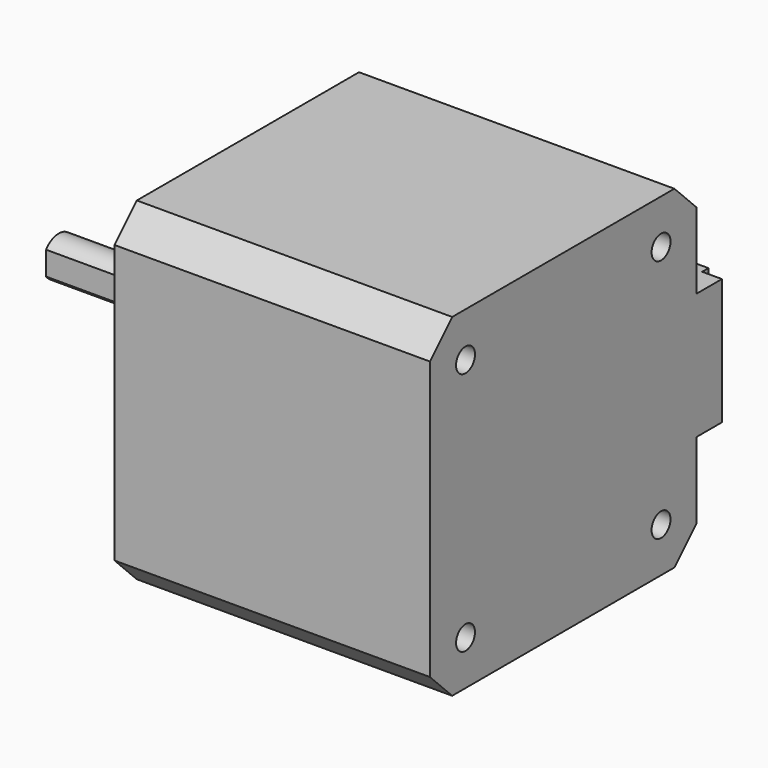
from build123d import *

# Parameters (mm, degrees)
PAD_DEPTH            = 40
SKETCH001_R          = 1.5
HOLE_DEPTH           = 4.5
HOLE_TIPS_R          = 1.5
SKETCH002_R          = 1.5
HOLE001_DEPTH        = 4.5
HOLE001_TIPS_R       = 1.5
SKETCH003_R          = 11
PAD001_DEPTH         = 2
PAD002_DEPTH         = 22
SKETCH005_R          = 2.5
PAD003_DEPTH         = 3
SKETCH006_W          = 16
SKETCH006_H          = 4
PAD004_DEPTH         = 2.5
PAD005_DEPTH         = 5
SKETCH008_W          = 0.5
SKETCH008_H          = 0.5
PAD006_DEPTH         = 4
BODY_PITCH_ANGLE     = 90
BODY_PLACEMENT_ANGLE = -180


with BuildPart() as part:
    # Sketch → Pad (new body)
    with BuildSketch(Plane.XY):
        Polygon((-17.614466, 21.15), (17.614466, 21.15), (21.15, 17.614466), (21.15, -17.614466), (17.614466, -21.15), (-17.614466, -21.15), (-21.15, -17.614466), (-21.15, 17.614466), align=None)
    extrude(amount=PAD_DEPTH)

    # Sketch001 (on Face10 of Pad) → Hole (cut)
    with BuildSketch(Plane.XY.offset(40)):
        with Locations((15.5, 15.5)):
            Circle(SKETCH001_R)
        with Locations((-15.5, 15.5)):
            Circle(SKETCH001_R)
        with Locations((-15.5, -15.5)):
            Circle(SKETCH001_R)
        with Locations((15.5, -15.5)):
            Circle(SKETCH001_R)
    extrude(amount=-HOLE_DEPTH, mode=Mode.SUBTRACT)

    # Hole tips → Hole tip 1 section 0
    with BuildSketch(Plane.XY.offset(35.5), mode=Mode.PRIVATE) as hole_tip_1_s0:
        with Locations((15.5, 15.5)):
            Circle(HOLE_TIPS_R)
    loft([hole_tip_1_s0.sketch, Vertex(15.5, 15.5, 34.598709)], mode=Mode.SUBTRACT)

    # Hole tips → Hole tip 2 section 0
    with BuildSketch(Plane.XY.offset(35.5), mode=Mode.PRIVATE) as hole_tip_2_s0:
        with Locations((-15.5, 15.5)):
            Circle(HOLE_TIPS_R)
    loft([hole_tip_2_s0.sketch, Vertex(-15.5, 15.5, 34.598709)], mode=Mode.SUBTRACT)

    # Hole tips → Hole tip 3 section 0
    with BuildSketch(Plane.XY.offset(35.5), mode=Mode.PRIVATE) as hole_tip_3_s0:
        with Locations((-15.5, -15.5)):
            Circle(HOLE_TIPS_R)
    loft([hole_tip_3_s0.sketch, Vertex(-15.5, -15.5, 34.598709)], mode=Mode.SUBTRACT)

    # Hole tips → Hole tip 4 section 0
    with BuildSketch(Plane.XY.offset(35.5), mode=Mode.PRIVATE) as hole_tip_4_s0:
        with Locations((15.5, -15.5)):
            Circle(HOLE_TIPS_R)
    loft([hole_tip_4_s0.sketch, Vertex(15.5, -15.5, 34.598709)], mode=Mode.SUBTRACT)

    # Sketch002 → Hole001 (cut)
    with BuildSketch(Plane.XY):
        with Locations((-15.5, 15.5)):
            Circle(SKETCH002_R)
        with Locations((-15.5, -15.5)):
            Circle(SKETCH002_R)
        with Locations((15.5, -15.5)):
            Circle(SKETCH002_R)
        with Locations((15.5, 15.5)):
            Circle(SKETCH002_R)
    extrude(amount=HOLE001_DEPTH, mode=Mode.SUBTRACT)

    # Hole001 tips → Hole001 tip 1 section 0
    with BuildSketch(Plane.XY.offset(4.5), mode=Mode.PRIVATE) as hole001_tip_1_s0:
        with Locations((-15.5, 15.5)):
            Circle(HOLE001_TIPS_R)
    loft([hole001_tip_1_s0.sketch, Vertex(-15.5, 15.5, 5.401291)], mode=Mode.SUBTRACT)

    # Hole001 tips → Hole001 tip 2 section 0
    with BuildSketch(Plane.XY.offset(4.5), mode=Mode.PRIVATE) as hole001_tip_2_s0:
        with Locations((-15.5, -15.5)):
            Circle(HOLE001_TIPS_R)
    loft([hole001_tip_2_s0.sketch, Vertex(-15.5, -15.5, 5.401291)], mode=Mode.SUBTRACT)

    # Hole001 tips → Hole001 tip 3 section 0
    with BuildSketch(Plane.XY.offset(4.5), mode=Mode.PRIVATE) as hole001_tip_3_s0:
        with Locations((15.5, -15.5)):
            Circle(HOLE001_TIPS_R)
    loft([hole001_tip_3_s0.sketch, Vertex(15.5, -15.5, 5.401291)], mode=Mode.SUBTRACT)

    # Hole001 tips → Hole001 tip 4 section 0
    with BuildSketch(Plane.XY.offset(4.5), mode=Mode.PRIVATE) as hole001_tip_4_s0:
        with Locations((15.5, 15.5)):
            Circle(HOLE001_TIPS_R)
    loft([hole001_tip_4_s0.sketch, Vertex(15.5, 15.5, 5.401291)], mode=Mode.SUBTRACT)

    # Sketch003 (on Face5 of Hole001) → Pad001 (join)
    with BuildSketch(Plane.XY.offset(40)):
        Circle(SKETCH003_R)
    extrude(amount=PAD001_DEPTH)

    # Sketch004 (on Face27 of Pad001) → Pad002 (join)
    with BuildSketch(Plane.XY.offset(42)):
        with BuildLine():
            ThreePointArc((-1.5, 2), (0, -2.5), (1.5, 2))
            Line((-1.5, 2), (1.5, 2))
        make_face()
    extrude(amount=PAD002_DEPTH)

    # Sketch005 (on Face27 of Pad001) → Pad003 (join)
    with BuildSketch(Plane.XY.offset(42)):
        Circle(SKETCH005_R)
    extrude(amount=PAD003_DEPTH)

    # Sketch006 (on Face4 of Pad003) → Pad004 (join)
    with BuildSketch(Plane(origin=(0, 0, 0), x_dir=(1, 0, 0), z_dir=(0, 0, -1))):
        with Locations((0, 23.15)):
            Rectangle(SKETCH006_W, SKETCH006_H)
    extrude(amount=-PAD004_DEPTH)

    # Sketch007 (on Face10 of Pad004) → Pad005 (join)
    with BuildSketch(Plane.XZ.offset(21.15)):
        Polygon((-4.2, 9), (-8, 9), (-8, 2.5), (8, 2.5), (8, 9), (4.2, 9), (4.2, 8.4), (7.4, 8.4), (7.4, 3.1), (-7.4, 3.1), (-7.4, 8.4), (-4.2, 8.4), align=None)
    extrude(amount=PAD005_DEPTH)

    # Sketch008 (on Face10 of Pad005) → Pad006 (join)
    with BuildSketch(Plane.XZ.offset(21.15)):
        with Locations((-5.25, 6.35)):
            Rectangle(SKETCH008_W, SKETCH008_H)
        with Locations((-3.15, 6.35)):
            Rectangle(SKETCH008_W, SKETCH008_H)
        with Locations((-1.05, 6.35)):
            Rectangle(SKETCH008_W, SKETCH008_H)
        with Locations((1.05, 6.35)):
            Rectangle(SKETCH008_W, SKETCH008_H)
        with Locations((3.15, 6.35)):
            Rectangle(SKETCH008_W, SKETCH008_H)
        with Locations((5.25, 6.35)):
            Rectangle(SKETCH008_W, SKETCH008_H)
    extrude(amount=PAD006_DEPTH)


with BuildPart() as part_1:
    # Body pitch: moved
    add(part.part.rotate(Axis((0, 0, 0), (0, 1, 0)), BODY_PITCH_ANGLE))


with BuildPart() as part_2:
    # Body placement: moved
    add(part_1.part.rotate(Axis((0, 0, 0), (0, 0, 1)), BODY_PLACEMENT_ANGLE))


solid = part_2.part
